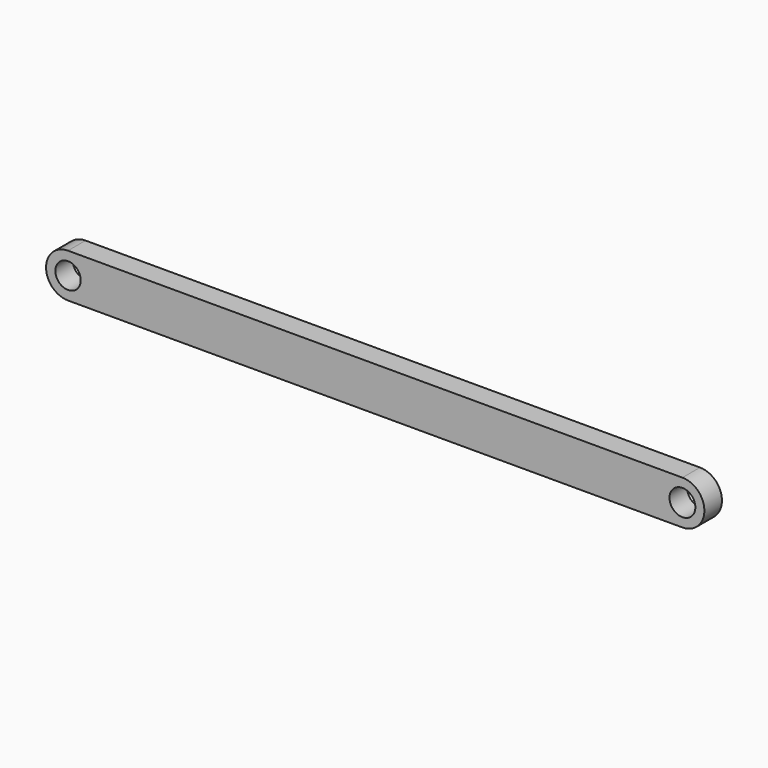
from build123d import *

# Parameters (mm, degrees)
F0_R     = 2.893868
F0_R_2   = 2.944641
F1_DEPTH = 5
F2_R     = 6.542649
F3_DEPTH = 150


with BuildPart() as f1:
    # F0 (on Front) → F1 (new body)
    with BuildSketch(Plane.XZ):
        with BuildLine():
            ThreePointArc((-66.804364, -60.668005), (-71.804364, -65.668005), (-66.804364, -70.668005))
            Line((-66.804364, -70.668005), (73.195636, -70.668005))
            ThreePointArc((73.195636, -70.668005), (78.195636, -65.668005), (73.195636, -60.668005))
            Line((73.195636, -60.668005), (-66.804364, -60.668005))
        make_face()
        with Locations((-66.804364, -65.668005)):
            Circle(F0_R, mode=Mode.SUBTRACT)
        with Locations((73.195636, -65.668005)):
            Circle(F0_R_2, mode=Mode.SUBTRACT)
    extrude(amount=F1_DEPTH)


with BuildPart() as f3:
    # F2 (on Front) → F3 (new body)
    with BuildSketch(Plane.XZ):
        with Locations((-51.154699, 6.320113)):
            Circle(F2_R)
    extrude(amount=F3_DEPTH)


solid = f1.part
